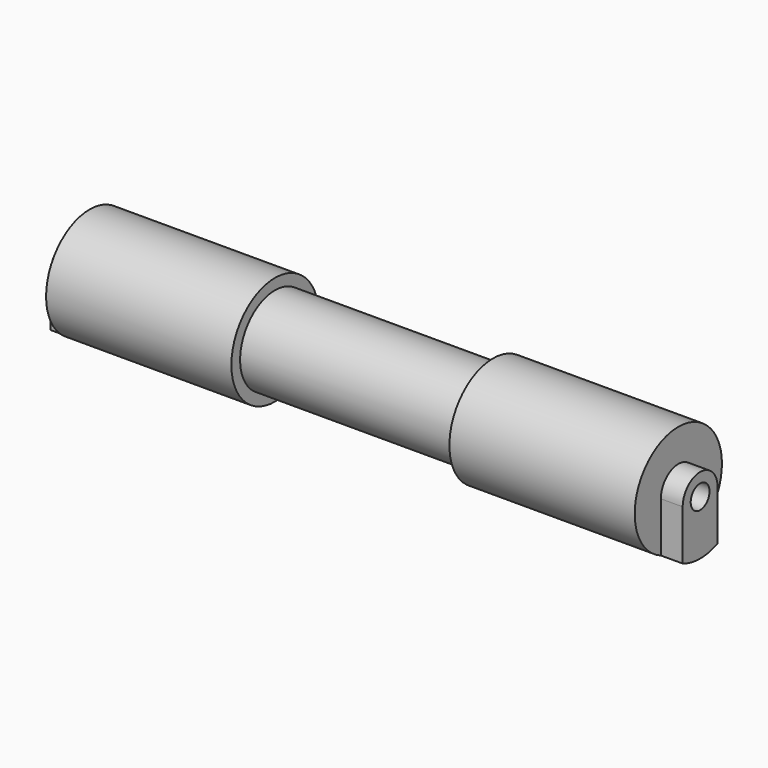
from build123d import *

# Parameters (mm, degrees)
F0_R      = 10
F1_DEPTH  = 25
F2_R      = 12.5
F3_DEPTH  = 42.5
F4_R      = 12.5
F5_DEPTH  = 42.5
F7_DEPTH  = 5
F9_D      = 5.4
F9_DEPTH  = 20
F9_TIP    = 1.6223236714
F11_DEPTH = 5
F13_D     = 5.4
F13_DEPTH = 20
F13_TIP   = 1.6223236714


with BuildPart() as f1:
    # F0 (on Right) → F1 (new body, symmetric)
    with BuildSketch(Plane.YZ):
        Circle(F0_R)
    extrude(amount=F1_DEPTH, both=True)

    # F2 (on face) → F3 (join)
    with BuildSketch(Plane.YZ.offset(25)):
        Circle(F2_R)
    extrude(amount=F3_DEPTH)

    # F4 (on face) → F5 (join)
    with BuildSketch(Plane(origin=(-25, 0, 0), x_dir=(0, -1, 0), z_dir=(-1, 0, 0))):
        Circle(F4_R)
    extrude(amount=F5_DEPTH)

    # F6 (on face) → F7 (join)
    with BuildSketch(Plane.YZ.offset(67.5)):
        with BuildLine():
            Line((5, -11.4564392374), (5, 0))
            ThreePointArc((5, 0), (0, -5), (-5, 0))
            Line((-5, 0), (-5, -11.4564392374))
            ThreePointArc((-5, -11.4564392374), (0, -12.5), (5, -11.4564392374))
        make_face()
        with BuildLine():
            ThreePointArc((-5, 0), (0, -5), (5, 0))
            ThreePointArc((5, 0), (0, 5), (-5, 0))
        make_face()
    extrude(amount=F7_DEPTH)

    # F9
    with Locations(Plane.YZ.offset(72.5)):
        with Locations((0, 0)):
            Hole(F9_D / 2, depth=F9_DEPTH)
            with Locations((0, 0, -(F9_DEPTH + F9_TIP / 2))):  # 118° drill point
                Cone(0, F9_D / 2, F9_TIP, mode=Mode.SUBTRACT)

    # F10 (on face) → F11 (join)
    with BuildSketch(Plane(origin=(-67.5, 0, 0), x_dir=(0, -1, 0), z_dir=(-1, 0, 0))):
        with BuildLine():
            ThreePointArc((-5, 0), (0, -5), (5, 0))
            ThreePointArc((5, 0), (0, 5), (-5, 0))
        make_face()
        with BuildLine():
            Line((5, -11.4564392374), (5, 0))
            ThreePointArc((5, 0), (0, -5), (-5, 0))
            Line((-5, 0), (-5, -11.4564392374))
            ThreePointArc((-5, -11.4564392374), (0, -12.5), (5, -11.4564392374))
        make_face()
    extrude(amount=F11_DEPTH)

    # F13
    with Locations(Plane(origin=(-72.5, 0, 0), x_dir=(0, -1, 0), z_dir=(-1, 0, 0))):
        with Locations((0, 0)):
            Hole(F13_D / 2, depth=F13_DEPTH)
            with Locations((0, 0, -(F13_DEPTH + F13_TIP / 2))):  # 118° drill point
                Cone(0, F13_D / 2, F13_TIP, mode=Mode.SUBTRACT)


solid = f1.part
